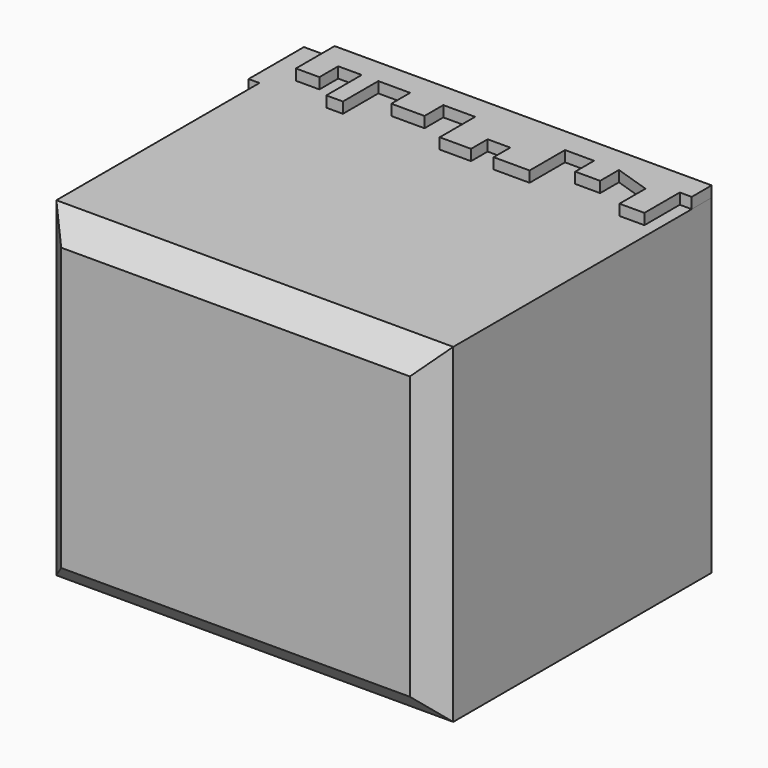
from build123d import *

# Parameters (mm, degrees)
F0_W     = 83.653443
F0_H     = 73.160328
F1_DEPTH = 69.596
F3_DEPTH = 2.286
F5_DEPTH = 2.286
F6_SIZE  = 5.08


with BuildPart() as f1:
    # F0 (on Top) → F1 (new body)
    with BuildSketch(Plane.XY):
        with Locations((-2.769016, 10.784589)):
            Rectangle(F0_W, F0_H)
    extrude(amount=F1_DEPTH)

    # F2 (on face) → F3 (join)
    with BuildSketch(Plane(origin=(-44.595737, 0, 0), x_dir=(0, -1, 0), z_dir=(-1, 0, 0))):
        Polygon((-47.364753, 0), (-38.037542, 0), (-38.037542, 8.452787), (-43.867048, 8.452787), (-43.867048, 11.950491), (-32.790981, 11.950491), (-32.790981, 16.6141), (-38.037542, 16.6141), (-38.037542, 22.152131), (-43.867048, 22.152131), (-43.867048, 24.483934), (-38.037542, 24.483934), (-38.037542, 30.021966), (-29.584754, 30.021966), (-29.584754, 35.851479), (-38.037542, 35.851479), (-38.037542, 41.098036), (-43.867048, 41.098036), (-43.867048, 46.344589), (-32.790981, 46.344589), (-32.790981, 53.631473), (-38.037542, 53.631473), (-38.037542, 60.626887), (-43.867048, 60.626887), (-43.867048, 65.873444), (-32.790981, 65.873444), (-32.790981, 69.596), (-47.364753, 69.596), align=None)
    extrude(amount=F3_DEPTH)

    # F4 (on face) → F5 (join)
    with BuildSketch(Plane.XY.offset(69.596)):
        Polygon((39.057706, 47.364753), (-40.410984, 47.364753), (-40.410984, 37.163116), (-35.455901, 37.163116), (-35.455901, 42.118195), (-30.50082, 42.118195), (-30.50082, 32.790981), (-27.003115, 32.790981), (-27.003115, 42.118195), (-20.299181, 42.118195), (-20.299181, 37.163116), (-13.303772, 37.163116), (-13.303772, 42.118195), (-6.599837, 42.118195), (-6.599837, 32.790981), (0, 32.790981), (0, 37.163116), (4.767703, 37.163116), (4.767703, 32.790981), (12.346066, 32.790981), (12.346066, 42.118195), (18.467048, 42.118195), (18.467048, 37.163116), (23.713607, 37.163116), (23.713607, 42.118195), (31.291965, 39.640656), (31.291965, 32.790981), (36.538523, 32.790981), (36.538523, 42.118195), (39.057706, 42.118195), align=None)
    extrude(amount=F5_DEPTH)

    # F6
    f6_edges = [f1.edges().sort_by_distance(p)[0] for p in [
        (-2.769016, -25.795575, 69.596),
        (-44.595737, -25.795575, 34.798),
        (-2.769016, -25.795575, 0),
        (39.057706, -25.795575, 34.798),
    ]]
    chamfer(f6_edges, length=F6_SIZE)


solid = f1.part
